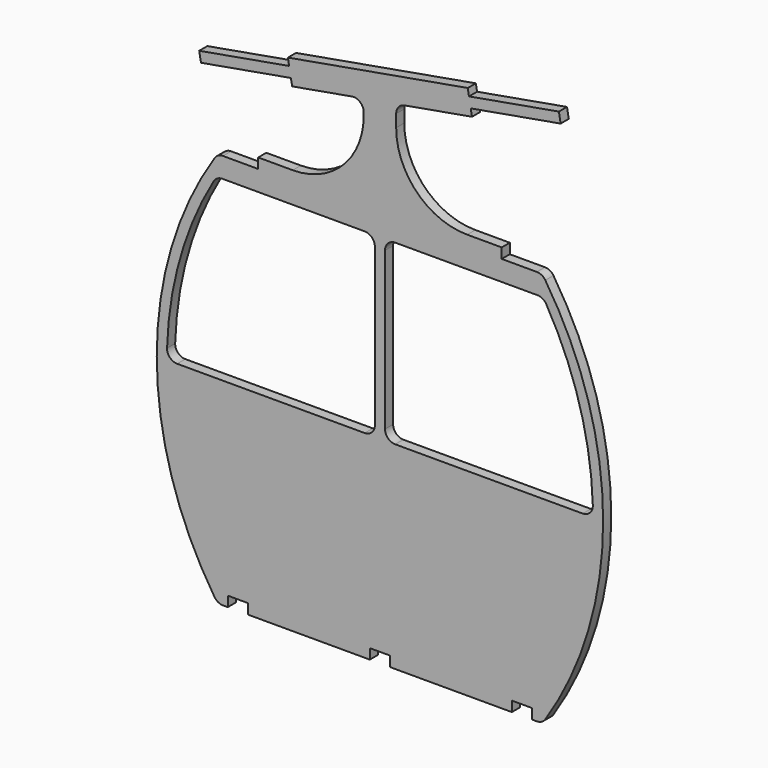
from build123d import *

# Parameters (mm, degrees)
F0_W     = 600
F0_H     = 50
F0_W_2   = 25
F0_H_2   = 875
F0_W_3   = 775
F1_DEPTH = 50
F2_R     = 50


with BuildPart() as f1:
    # F0 (on Front) → F1 (new body)
    with BuildSketch(Plane.XZ):
        with Locations((-1150, 25)):
            Rectangle(F0_W, F0_H)
        with Locations((-450, 25)):
            Rectangle(F0_W, F0_H)
        with BuildLine():
            Line((-825, 925), (-1600, 925))
            Line((-1600, 925), (-1600, 92.0008493776))
            ThreePointArc((-1600.0000000001, 92.0008493776), (-1586.7954423389, 70.9017119543), (-1573.2805475772, 50))
            Line((-1573.2805475772, 50), (-1550, 50))
            Line((-1550, 50), (-1450, 50))
            Line((-1450, 50), (-850, 50))
            Line((-850, 50), (-800, 50))
            Line((-800, 50), (-750, 50))
            Line((-750, 50), (-150, 50))
            Line((-150, 50), (-50, 50))
            Line((-50, 50), (-26.7194524228, 50))
            ThreePointArc((-26.7194524228, 50), (-13.2045576611, 70.9017119543), (1e-10, 92.0008493776))
            Line((0, 92.0008493776), (0, 925))
            Line((0, 925), (-775, 925))
            Line((-775, 925), (-825, 925))
        make_face()
        with BuildLine():
            Line((-1849.2577214167, 925), (-1899.279129469, 925))
            ThreePointArc((-1899.279129469, 925), (-1815.7790507756, 441.1008996693), (-1600, 0))
            Line((-1600, 0), (-1600, 92.0008493776))
            ThreePointArc((-1600.0000000001, 92.0008493776), (-1779.3055551094, 492.139557753), (-1849.2577214167, 925))
        make_face()
        Polygon((-1400, 1950), (-1600, 1950), (-1600, 1850), (-825, 1850), (-800, 1850), (-800, 1950), align=None)
        Polygon((-200, 1950), (-800, 1950), (-800, 1850), (-775, 1850), (0, 1850), (0, 1950), align=None)
        with BuildLine():
            ThreePointArc((0, 0), (215.7790507756, 441.1008996693), (299.279129469, 925))
            Line((299.279129469, 925), (249.2577214167, 925))
            ThreePointArc((249.2577214167, 925), (179.3055551094, 492.139557753), (1e-10, 92.0008493776))
            Line((0, 92.0008493776), (0, 0))
        make_face()
        with BuildLine():
            Line((-1400, 2000), (-1400, 1950))
            Line((-1400, 1950), (-800, 1950))
            Line((-800, 1950), (-200, 1950))
            Line((-200, 1950), (-200, 2000))
            Line((-200, 2000), (-370, 2000))
            ThreePointArc((-370, 2000), (-617.4873734153, 2102.5126265847), (-720, 2350))
            Line((-720, 2350), (-720, 2453.1805617435))
            Line((-720, 2453.1805617435), (-880, 2424.9682448302))
            Line((-880, 2424.9682448302), (-880, 2350))
            ThreePointArc((-880, 2350), (-982.5126265847, 2102.5126265847), (-1230, 2000))
            Line((-1230, 2000), (-1400, 2000))
        make_face()
        with Locations((-812.5, 1412.5)):
            Rectangle(F0_W_2, F0_H_2)
        with Locations((-787.5, 1412.5)):
            Rectangle(F0_W_2, F0_H_2)
        with BuildLine():
            Line((-1185.1073630845, 2406.7095161216), (-880, 2460.5081762462))
            Line((-880, 2460.5081762462), (-880, 2485.8938415433))
            Line((-880, 2485.8938415433), (-1184.0750236748, 2432.2772107099))
            ThreePointArc((-1184.0750236748, 2432.2772107099), (-1183.39180697, 2427.0876646147), (-1183.1634888555, 2421.8583200499))
            ThreePointArc((-1183.1634888555, 2421.8583200499), (-1183.6514415614, 2414.2218138547), (-1185.1073630845, 2406.7095161216))
        make_face()
        with BuildLine():
            Line((-1243.1634888555, 2421.8583200499), (-1184.0750236748, 2432.2772107099))
            ThreePointArc((-1184.0750236748, 2432.2772107099), (-1187.6557386402, 2444.6374698592), (-1193.7897719678, 2455.9499037722))
            Line((-1193.7897719678, 2455.9499037722), (-1247.5046932972, 2446.4785138752))
            Line((-1247.5046932972, 2446.4785138752), (-1243.1634888555, 2421.8583200499))
        make_face()
        with BuildLine():
            Line((-1184.0750236748, 2432.2772107099), (-880, 2485.8938415433))
            Line((-880, 2485.8938415433), (-880, 2500))
            Line((-880, 2500), (-800, 2500))
            Line((-800, 2500), (-804.3412044417, 2524.6201938253))
            Line((-804.3412044417, 2524.6201938253), (-1193.7897719678, 2455.9499037722))
            ThreePointArc((-1193.7897719678, 2455.9499037722), (-1187.6557386402, 2444.6374698592), (-1184.0750236748, 2432.2772107099))
        make_face()
        with BuildLine():
            Line((-1232.7445981955, 2362.7698548691), (-880, 2424.9682448302))
            Line((-880, 2424.9682448302), (-880, 2460.5081762462))
            Line((-880, 2460.5081762462), (-1185.1073630845, 2406.7095161216))
            ThreePointArc((-1185.1073630845, 2406.7095161216), (-1202.4832672908, 2377.7548102865), (-1232.7445981955, 2362.7698548691))
        make_face()
        Polygon((-880, 2485.8938415433), (-880, 2460.5081762462), (-720, 2488.7204931595), (-720, 2500), (-800, 2500), align=None)
        with BuildLine():
            ThreePointArc((-414.8926369155, 2593.2904838784), (-416.7876625009, 2580.5623102494), (-415.9249763252, 2567.7227892901))
            Line((-415.9249763252, 2567.7227892901), (-356.8365111445, 2578.1416799501))
            Line((-356.8365111445, 2578.1416799501), (-361.1777155862, 2602.7618737754))
            Line((-361.1777155862, 2602.7618737754), (-414.8926369155, 2593.2904838784))
        make_face()
        with BuildLine():
            Line((-720, 2500), (-720, 2488.7204931595))
            Line((-720, 2488.7204931595), (-406.2102280322, 2544.0500962278))
            ThreePointArc((-406.2102280322, 2544.0500962278), (-412.3442613598, 2555.3625301408), (-415.9249763252, 2567.7227892901))
            Line((-415.9249763252, 2567.7227892901), (-800, 2500))
            Line((-800, 2500), (-720, 2500))
        make_face()
        Polygon((-880, 2500), (-880, 2485.8938415433), (-800, 2500), align=None)
        with BuildLine():
            Line((-810.41889066, 2559.0884651807), (-804.3412044417, 2524.6201938253))
            Line((-804.3412044417, 2524.6201938253), (-414.8926369155, 2593.2904838784))
            ThreePointArc((-414.8926369155, 2593.2904838784), (-397.5167327092, 2622.2451897135), (-367.2554018045, 2637.2301451309))
            Line((-367.2554018045, 2637.2301451309), (-810.41889066, 2559.0884651807))
        make_face()
        with BuildLine():
            Line((-804.3412044417, 2524.6201938253), (-800, 2500))
            Line((-800, 2500), (-415.9249763252, 2567.7227892901))
            ThreePointArc((-415.9249763252, 2567.7227892901), (-416.7876625009, 2580.5623102494), (-414.8926369155, 2593.2904838784))
            Line((-414.8926369155, 2593.2904838784), (-804.3412044417, 2524.6201938253))
        make_face()
        with BuildLine():
            ThreePointArc((-1253.5823795155, 2480.9467852306), (-1220.0208735696, 2477.2155179354), (-1193.7897719678, 2455.9499037722))
            Line((-1193.7897719678, 2455.9499037722), (-804.3412044417, 2524.6201938253))
            Line((-804.3412044417, 2524.6201938253), (-810.41889066, 2559.0884651807))
            Line((-810.41889066, 2559.0884651807), (-1253.5823795155, 2480.9467852306))
        make_face()
        with BuildLine():
            Line((-720, 2488.7204931595), (-720, 2453.1805617435))
            Line((-720, 2453.1805617435), (-346.4176204845, 2519.0532147694))
            ThreePointArc((-346.4176204845, 2519.0532147694), (-379.9791264304, 2522.7844820646), (-406.2102280322, 2544.0500962278))
            Line((-406.2102280322, 2544.0500962278), (-720, 2488.7204931595))
        make_face()
        Polygon((-880, 2460.5081762462), (-880, 2424.9682448302), (-720, 2453.1805617435), (-720, 2488.7204931595), align=None)
        with BuildLine():
            Line((-1238.8222844138, 2397.2381262246), (-1185.1073630845, 2406.7095161216))
            ThreePointArc((-1185.1073630845, 2406.7095161216), (-1183.6514415614, 2414.2218138547), (-1183.1634888555, 2421.8583200499))
            ThreePointArc((-1183.1634888555, 2421.8583200499), (-1183.39180697, 2427.0876646147), (-1184.0750236748, 2432.2772107099))
            Line((-1184.0750236748, 2432.2772107099), (-1243.1634888555, 2421.8583200499))
            Line((-1243.1634888555, 2421.8583200499), (-1238.8222844138, 2397.2381262246))
        make_face()
        with BuildLine():
            ThreePointArc((-415.9249763252, 2567.7227892901), (-412.3442613598, 2555.3625301408), (-406.2102280322, 2544.0500962278))
            Line((-406.2102280322, 2544.0500962278), (-352.4953067028, 2553.5214861248))
            Line((-352.4953067028, 2553.5214861248), (-356.8365111445, 2578.1416799501))
            Line((-356.8365111445, 2578.1416799501), (-415.9249763252, 2567.7227892901))
        make_face()
        with BuildLine():
            Line((-1681.9857732693, 2319.0964462745), (-1292.5372057432, 2387.7667363276))
            ThreePointArc((-1292.5372057432, 2387.7667363276), (-1302.2519540362, 2411.4394293899), (-1301.2196146265, 2437.0071239782))
            Line((-1301.2196146265, 2437.0071239782), (-1690.6681821527, 2368.3368339251))
            Line((-1690.6681821527, 2368.3368339251), (-1681.9857732693, 2319.0964462745))
        make_face()
        with BuildLine():
            Line((-1247.5046932972, 2446.4785138752), (-1193.7897719678, 2455.9499037722))
            ThreePointArc((-1193.7897719678, 2455.9499037722), (-1220.0208735696, 2477.2155179354), (-1253.5823795155, 2480.9467852306))
            Line((-1253.5823795155, 2480.9467852306), (-1247.5046932972, 2446.4785138752))
        make_face()
        with BuildLine():
            ThreePointArc((-406.2102280322, 2544.0500962278), (-379.9791264304, 2522.7844820646), (-346.4176204845, 2519.0532147694))
            Line((-346.4176204845, 2519.0532147694), (-352.4953067028, 2553.5214861248))
            Line((-352.4953067028, 2553.5214861248), (-406.2102280322, 2544.0500962278))
        make_face()
        with BuildLine():
            ThreePointArc((-296.8365111445, 2578.1416799501), (-297.3244638504, 2570.5051737549), (-298.7803853735, 2562.9928760218))
            Line((-298.7803853735, 2562.9928760218), (90.6681821527, 2631.6631660749))
            Line((90.6681821527, 2631.6631660749), (81.9857732693, 2680.9035537255))
            Line((81.9857732693, 2680.9035537255), (-307.4627942568, 2612.2332636724))
            ThreePointArc((-307.4627942568, 2612.2332636724), (-299.5546509562, 2595.9963290189), (-296.8365111445, 2578.1416799501))
        make_face()
        with BuildLine():
            ThreePointArc((-1301.2196146265, 2437.0071239782), (-1302.2519540362, 2411.4394293899), (-1292.5372057432, 2387.7667363276))
            Line((-1292.5372057432, 2387.7667363276), (-1238.8222844138, 2397.2381262246))
            Line((-1238.8222844138, 2397.2381262246), (-1243.1634888555, 2421.8583200499))
            Line((-1243.1634888555, 2421.8583200499), (-1247.5046932972, 2446.4785138752))
            Line((-1247.5046932972, 2446.4785138752), (-1301.2196146265, 2437.0071239782))
        make_face()
        with BuildLine():
            Line((-352.4953067028, 2553.5214861248), (-298.7803853735, 2562.9928760218))
            ThreePointArc((-298.7803853735, 2562.9928760218), (-297.3244638504, 2570.5051737549), (-296.8365111445, 2578.1416799501))
            ThreePointArc((-296.8365111445, 2578.1416799501), (-299.5546509562, 2595.9963290189), (-307.4627942568, 2612.2332636724))
            Line((-307.4627942568, 2612.2332636724), (-361.1777155862, 2602.7618737754))
            Line((-361.1777155862, 2602.7618737754), (-356.8365111445, 2578.1416799501))
            Line((-356.8365111445, 2578.1416799501), (-352.4953067028, 2553.5214861248))
        make_face()
        with BuildLine():
            ThreePointArc((-367.2554018045, 2637.2301451309), (-397.5167327092, 2622.2451897135), (-414.8926369155, 2593.2904838784))
            Line((-414.8926369155, 2593.2904838784), (-361.1777155862, 2602.7618737754))
            Line((-361.1777155862, 2602.7618737754), (-367.2554018045, 2637.2301451309))
        make_face()
        with BuildLine():
            Line((-1238.8222844138, 2397.2381262246), (-1232.7445981955, 2362.7698548691))
            ThreePointArc((-1232.7445981955, 2362.7698548691), (-1202.4832672908, 2377.7548102865), (-1185.1073630845, 2406.7095161216))
            Line((-1185.1073630845, 2406.7095161216), (-1238.8222844138, 2397.2381262246))
        make_face()
        with BuildLine():
            Line((-1600, 925), (-1849.2577214167, 925))
            ThreePointArc((-1849.2577214167, 925), (-1779.3055551094, 492.139557753), (-1600.0000000001, 92.0008493776))
            Line((-1600, 92.0008493776), (-1600, 925))
        make_face()
        with BuildLine():
            ThreePointArc((1e-10, 92.0008493776), (179.3055551094, 492.139557753), (249.2577214167, 925))
            Line((249.2577214167, 925), (0, 925))
            Line((0, 925), (0, 92.0008493776))
        make_face()
        with BuildLine():
            ThreePointArc((299.279129469, 925), (230.4848713679, 1461.1051834057), (0, 1950))
            Line((0, 1950), (0, 1850))
            Line((0, 1850), (4.8936130896, 1850))
            ThreePointArc((4.8936130896, 1850), (187.5663076307, 1429.340769936), (250, 975))
            ThreePointArc((250, 975), (249.8144201308, 949.9972452643), (249.2577214167, 925))
            Line((249.2577214167, 925), (299.279129469, 925))
        make_face()
        with BuildLine():
            Line((-1600, 1850), (-1600, 1950))
            ThreePointArc((-1600, 1950), (-1830.4848713679, 1461.1051834057), (-1899.279129469, 925))
            Line((-1899.279129469, 925), (-1849.2577214167, 925))
            ThreePointArc((-1849.2577214167, 925), (-1849.8144201308, 949.9972452643), (-1850, 975))
            ThreePointArc((-1850, 975), (-1787.5663076307, 1429.340769936), (-1604.8936130896, 1850))
            Line((-1604.8936130896, 1850), (-1600, 1850))
        make_face()
        Polygon((-800, 975), (-825, 975), (-825, 925), (-775, 925), (-775, 975), align=None)
        with BuildLine():
            Line((-50, 0), (0, 0))
            Line((0, 0), (0, 92.0008493776))
            ThreePointArc((1e-10, 92.0008493776), (-13.2045576611, 70.9017119543), (-26.7194524228, 50))
            Line((-26.7194524228, 50), (-50, 50))
            Line((-50, 50), (-50, 0))
        make_face()
        with BuildLine():
            Line((-1600, 92.0008493776), (-1600, 0))
            Line((-1600, 0), (-1550, 0))
            Line((-1550, 0), (-1550, 50))
            Line((-1550, 50), (-1573.2805475772, 50))
            ThreePointArc((-1573.2805475772, 50), (-1586.7954423389, 70.9017119543), (-1600.0000000001, 92.0008493776))
        make_face()
        with Locations((-1212.5, 950)):
            Rectangle(F0_W_3, F0_H)
        with Locations((-387.5, 950)):
            Rectangle(F0_W_3, F0_H)
        with BuildLine():
            Line((-1600, 925), (-1600, 975))
            Line((-1600, 975), (-1850, 975))
            ThreePointArc((-1850, 975), (-1849.8144201308, 949.9972452643), (-1849.2577214167, 925))
            Line((-1849.2577214167, 925), (-1600, 925))
        make_face()
        with BuildLine():
            Line((250, 975), (0, 975))
            Line((0, 975), (0, 925))
            Line((0, 925), (249.2577214167, 925))
            ThreePointArc((249.2577214167, 925), (249.8144201308, 949.9972452643), (250, 975))
        make_face()
        with BuildLine():
            Line((-1600, 1850), (-1600, 1950))
            ThreePointArc((-1600, 1950), (-1830.4848713679, 1461.1051834057), (-1899.279129469, 925))
            Line((-1899.279129469, 925), (-1849.2577214167, 925))
            ThreePointArc((-1849.2577214167, 925), (-1849.8144201308, 949.9972452643), (-1850, 975))
            ThreePointArc((-1850, 975), (-1787.5663076307, 1429.340769936), (-1604.8936130896, 1850))
            Line((-1604.8936130896, 1850), (-1600, 1850))
        make_face()
    extrude(amount=F1_DEPTH)

    # F2
    f2_edges = [f1.edges().sort_by_distance(p)[0] for p in [
        (-1604.893613, -25, 1850),
        (-825, -25, 1850),
        (-1850, -25, 975),
        (-825, -25, 975),
        (-775, -25, 1850),
        (-775, -25, 975),
        (250, -25, 975),
        (4.893613, -25, 1850),
        (0, -25, 1950),
        (-1600, -25, 1950),
        (-1600, -25, 0),
        (0, -25, 0),
        (-880, -25, 2424.968245),
        (-720, -25, 2453.180562),
    ]]
    fillet(f2_edges, radius=F2_R)


solid = f1.part
